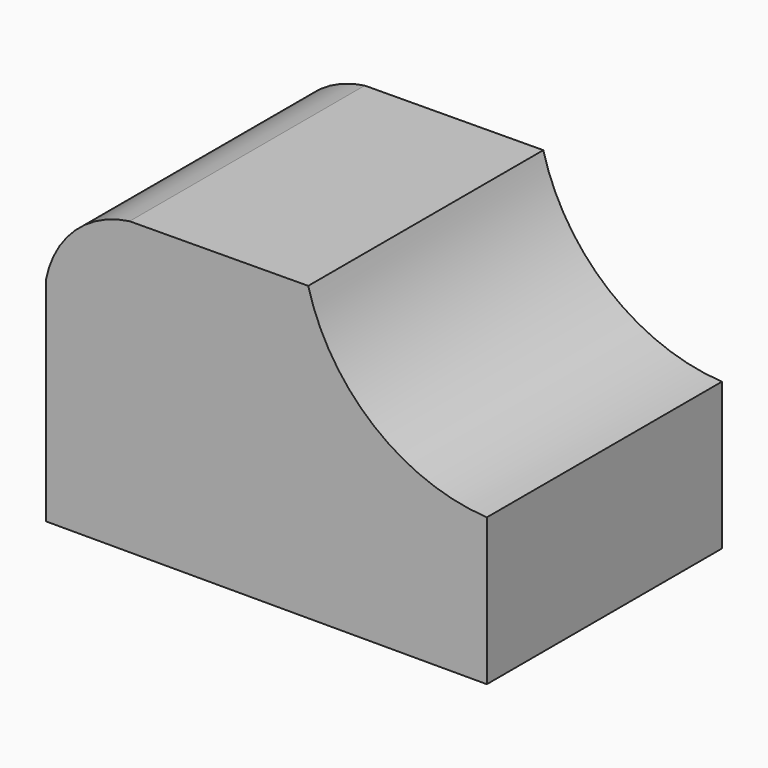
from build123d import *

# Parameters (mm, degrees)
F1_DEPTH = 38.1
F3_DEPTH = 38.1
F5_DEPTH = 38.1


with BuildPart() as f1:
    # F0 (on Front) → F1 (new body)
    with BuildSketch(Plane.XZ):
        Polygon((57.148678, 38.1), (0, 37.711234), (0, 0), (57.148678, 0), align=None)
    extrude(amount=F1_DEPTH)

    # F2 (on face) → F3 (cut)
    with BuildSketch(Plane.XZ.offset(38.1)):
        with BuildLine():
            ThreePointArc((0, 27.63082), (3.777567, 34.45559), (10.83186, 37.78492))
            Line((10.83186, 37.78492), (0, 37.711234))
            Line((0, 37.711234), (0, 27.63082))
        make_face()
    extrude(amount=-F3_DEPTH, mode=Mode.SUBTRACT)

    # F4 (on face) → F5 (cut)
    with BuildSketch(Plane.XZ.offset(38.1)):
        with BuildLine():
            Line((57.148678, 38.1), (33.990269, 37.94246))
            ThreePointArc((33.990269, 37.94246), (42.496702, 24.729622), (57.148678, 19.05))
            Line((57.148678, 19.05), (57.148678, 38.1))
        make_face()
    extrude(amount=-F5_DEPTH, mode=Mode.SUBTRACT)


solid = f1.part
